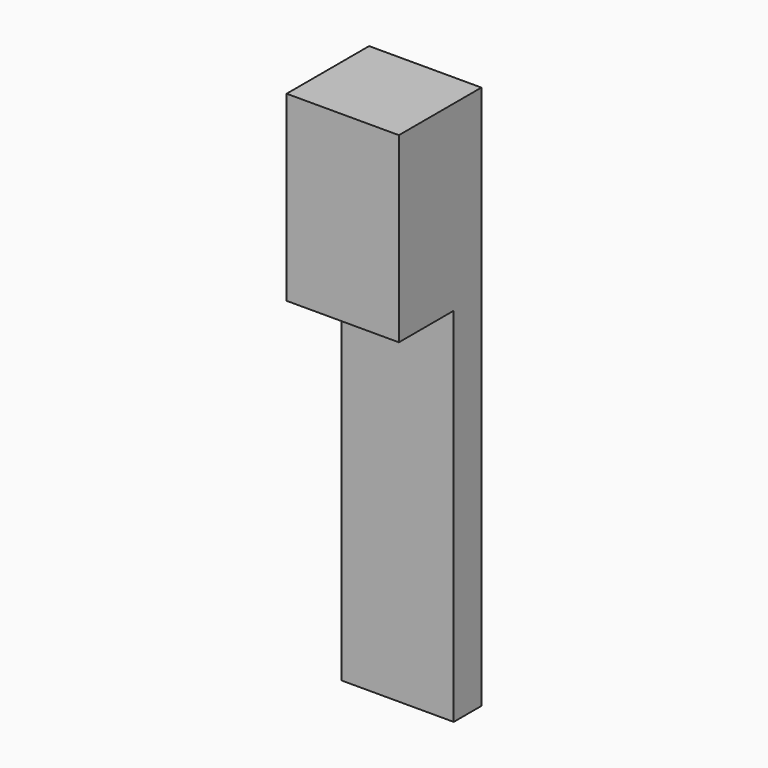
from build123d import *

# Parameters (mm, degrees)
F0_W     = 82.5
F0_H     = 25.4
F1_DEPTH = 200
F2_W     = 82.5
F2_H     = 134
F3_DEPTH = 50.35
F4_DEPTH = 200


with BuildPart() as f1:
    # F0 (on Top) → F1 (new body)
    with BuildSketch(Plane.XY):
        Rectangle(F0_W, F0_H)
    extrude(amount=F1_DEPTH)

    # F2 (on face) → F3 (join)
    with BuildSketch(Plane.XZ.offset(12.7)):
        with Locations((0, 133)):
            Rectangle(F2_W, F2_H)
    extrude(amount=F3_DEPTH)

    # F4 (add): a face of the model
    f4_faces = [f1.faces().sort_by_distance(p)[0] for p in [
        (0, 0, 0),
    ]]
    extrude(f4_faces, amount=F4_DEPTH)


solid = f1.part
